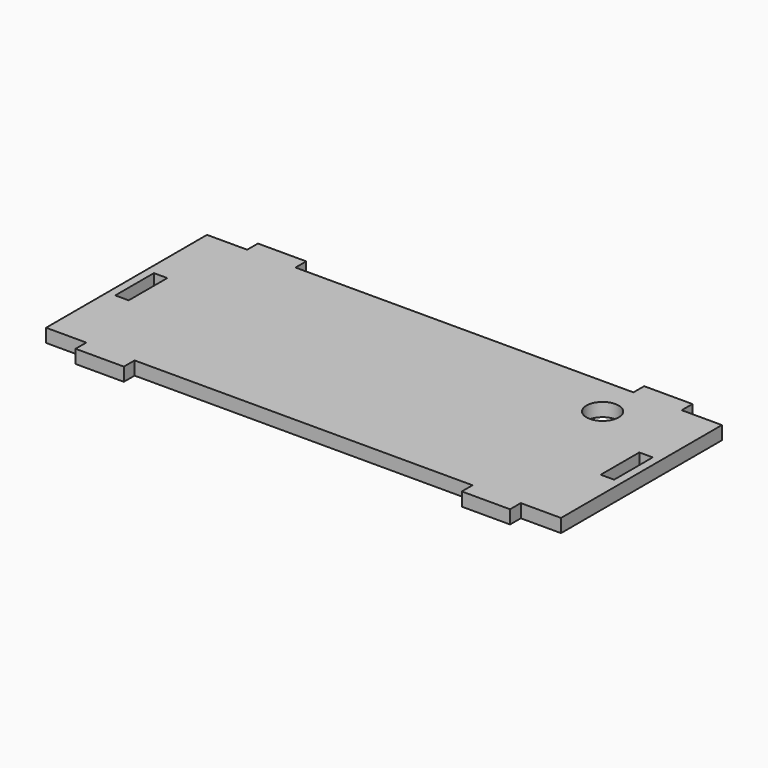
from build123d import *

# Parameters (mm, degrees)
F0_W     = 5
F0_H     = 18
F0_R     = 6
F1_DEPTH = 5


with BuildPart() as f1:
    # F0 (on Top) → F1 (new body)
    with BuildSketch(Plane.XY):
        Polygon((96, -37.5), (96, 37.5), (81, 37.5), (81, 42.5), (63, 42.5), (63, 37.5), (-63, 37.5), (-63, 42.5), (-81, 42.5), (-81, 37.5), (-96, 37.5), (-96, -37.5), (-81, -37.5), (-81, -42.5), (-63, -42.5), (-63, -37.5), (63, -37.5), (63, -42.5), (81, -42.5), (81, -37.5), align=None)
        with Locations((-90.5, 0)):
            Rectangle(F0_W, F0_H, mode=Mode.SUBTRACT)
        with Locations((90.5, 0)):
            Rectangle(F0_W, F0_H, mode=Mode.SUBTRACT)
        with Locations((63.500844, 22.5)):
            Circle(F0_R, mode=Mode.SUBTRACT)
    extrude(amount=F1_DEPTH)


solid = f1.part
